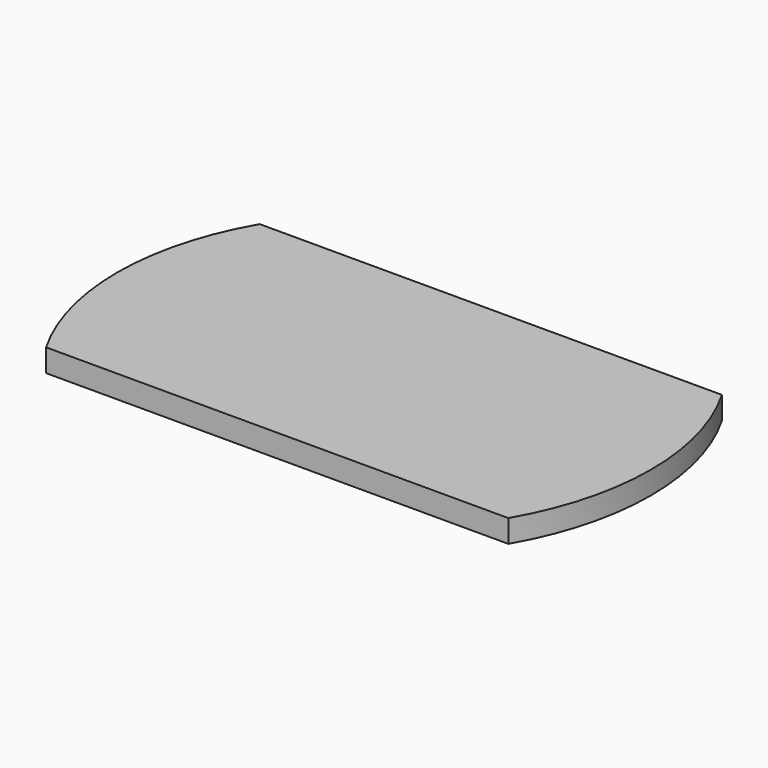
from build123d import *

# Parameters (mm, degrees)
F1_DEPTH = 10


with BuildPart() as f1:
    # F0 (on Top) → F1 (new body)
    with BuildSketch(Plane.XY):
        with BuildLine():
            Line((0, 58.75), (-101.757985, 58.75))
            ThreePointArc((-101.757985, 58.75), (-117.5, 0), (-101.757985, -58.75))
            Line((-101.757985, -58.75), (0, -58.75))
            Line((0, -58.75), (101.757985, -58.75))
            ThreePointArc((101.757985, -58.75), (117.5, 0), (101.757985, 58.75))
            Line((101.757985, 58.75), (0, 58.75))
        make_face()
    extrude(amount=F1_DEPTH)


solid = f1.part
